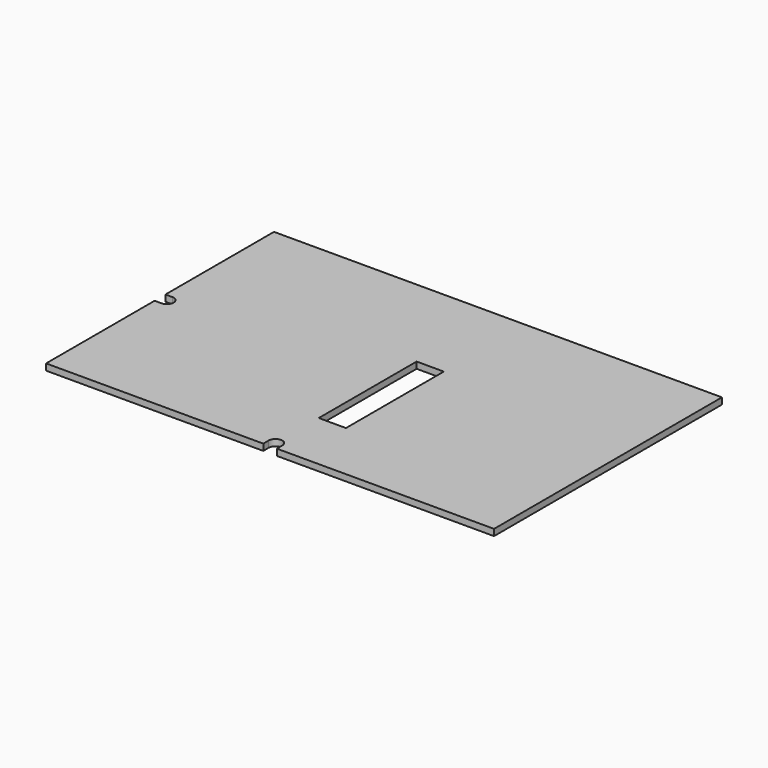
from build123d import *

# Parameters (mm, degrees)
F0_W     = 209.296
F0_H     = 133.096
F1_DEPTH = 2.9972
F2_W     = 12.7
F2_H     = 57.15
F3_DEPTH = 2.9982


with BuildPart() as f1:
    # F0 (on Top) → F1 (new body)
    with BuildSketch(Plane.XY):
        Rectangle(F0_W, F0_H)
    extrude(amount=F1_DEPTH)

    # F2 (on face) → F3 (cut, through all)
    with BuildSketch(Plane.XY.offset(2.9972)):
        with Locations((6.35, -9.525)):
            Rectangle(F2_W, F2_H)
        with BuildLine():
            ThreePointArc((3.175, -63.373), (0, -60.198), (-3.175, -63.373))
            Line((-3.175, -63.373), (-3.175, -66.548))
            Line((-3.175, -66.548), (3.175, -66.548))
            Line((3.175, -66.548), (3.175, -63.373))
        make_face()
        with BuildLine():
            Line((-101.473, 3.175), (-104.648, 3.175))
            Line((-104.648, 3.175), (-104.648, -3.175))
            Line((-104.648, -3.175), (-101.473, -3.175))
            ThreePointArc((-101.473, -3.175), (-98.298, 0), (-101.473, 3.175))
        make_face()
    extrude(amount=-F3_DEPTH, mode=Mode.SUBTRACT)


solid = f1.part
